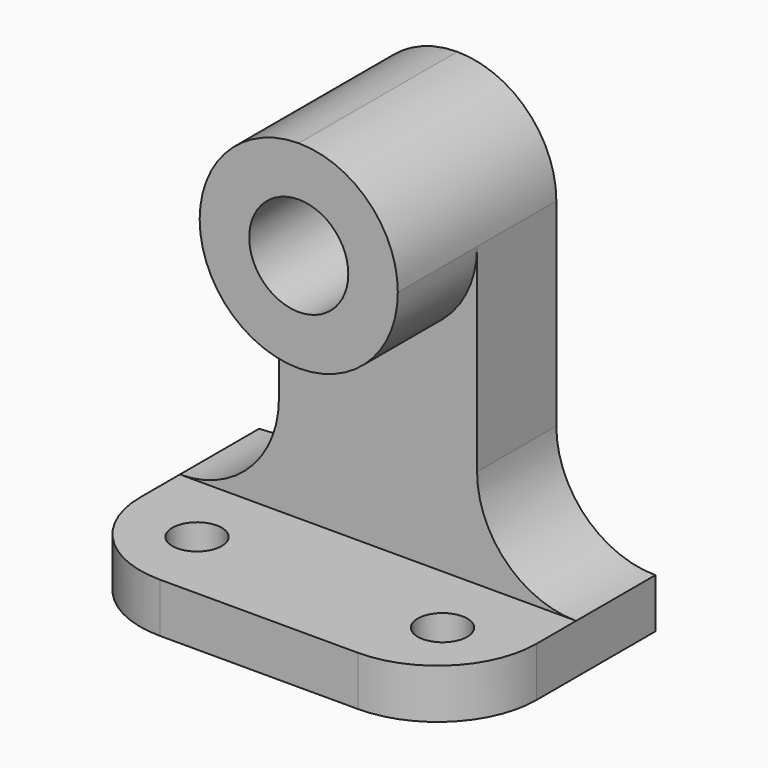
from build123d import *

# Parameters (mm, degrees)
F1_DEPTH = 31.75
F2_DEPTH = 25.4
F3_DEPTH = 12.7
F5_DEPTH = 6.35
F6_R     = 3.175
F7_DEPTH = 6.35


with BuildPart() as f1:
    # F0 (on Front) → F1 (new body)
    with BuildSketch(Plane.XZ):
        Polygon((-42.646856, 0), (-55.346856, 0), (-55.346856, -6.35), (-4.546856, -6.35), (-4.546856, 0), (-17.246856, 0), align=None)
    extrude(amount=F1_DEPTH)



with BuildPart() as f2:
    # F0 (on Front) → F2 (new body)
    with BuildSketch(Plane.XZ):
        with BuildLine():
            ThreePointArc((-17.246856, 38.1), (-20.9666, 47.080256), (-29.946856, 50.8))
            ThreePointArc((-29.946856, 50.8), (-38.927112, 47.080256), (-42.646856, 38.1))
            ThreePointArc((-42.646856, 38.1), (-29.946856, 25.4), (-17.246856, 38.1))
        make_face()
        with BuildLine():
            ThreePointArc((-23.596856, 38.1), (-34.436984, 33.609872), (-29.946856, 44.45))
            ThreePointArc((-29.946856, 44.45), (-25.456728, 42.590128), (-23.596856, 38.1))
        make_face(mode=Mode.SUBTRACT)
    extrude(amount=F2_DEPTH)


with BuildPart() as f1_1:
    add(f1.part)

    add(f2.part)  # F3 merges F2
    # F0 (on Front) → F3 (join)
    with BuildSketch(Plane.XZ):
        with BuildLine():
            ThreePointArc((-42.646856, 12.7), (-46.3666, 3.719744), (-55.346856, 0))
            Line((-55.346856, 0), (-42.646856, 0))
            Line((-42.646856, 0), (-17.246856, 0))
            Line((-17.246856, 0), (-4.546856, 0))
            ThreePointArc((-4.546856, 0), (-13.527112, 3.719744), (-17.246856, 12.7))
            Line((-17.246856, 12.7), (-17.246856, 38.1))
            ThreePointArc((-17.246856, 38.1), (-29.946856, 25.4), (-42.646856, 38.1))
            Line((-42.646856, 38.1), (-42.646856, 12.7))
        make_face()
    extrude(amount=F3_DEPTH)

    # F4 (on face) → F5 (cut)
    with BuildSketch(Plane.XY):
        with BuildLine():
            ThreePointArc((-42.646856, -31.75), (-51.627112, -28.030256), (-55.346856, -19.05))
            Line((-55.346856, -19.05), (-55.346856, -31.75))
            Line((-55.346856, -31.75), (-42.646856, -31.75))
        make_face()
        with BuildLine():
            Line((-4.546856, -31.75), (-4.546856, -19.05))
            ThreePointArc((-4.546856, -19.05), (-8.2666, -28.030256), (-17.246856, -31.75))
            Line((-17.246856, -31.75), (-4.546856, -31.75))
        make_face()
    extrude(amount=-F5_DEPTH, mode=Mode.SUBTRACT)

    # F6 (on face) → F7 (cut)
    with BuildSketch(Plane.XY):
        with Locations((-45.552474, -22.190144)):
            Circle(F6_R)
        with Locations((-14.071856, -22.20941)):
            Circle(F6_R)
    extrude(amount=-F7_DEPTH, mode=Mode.SUBTRACT)


solid = f1_1.part
